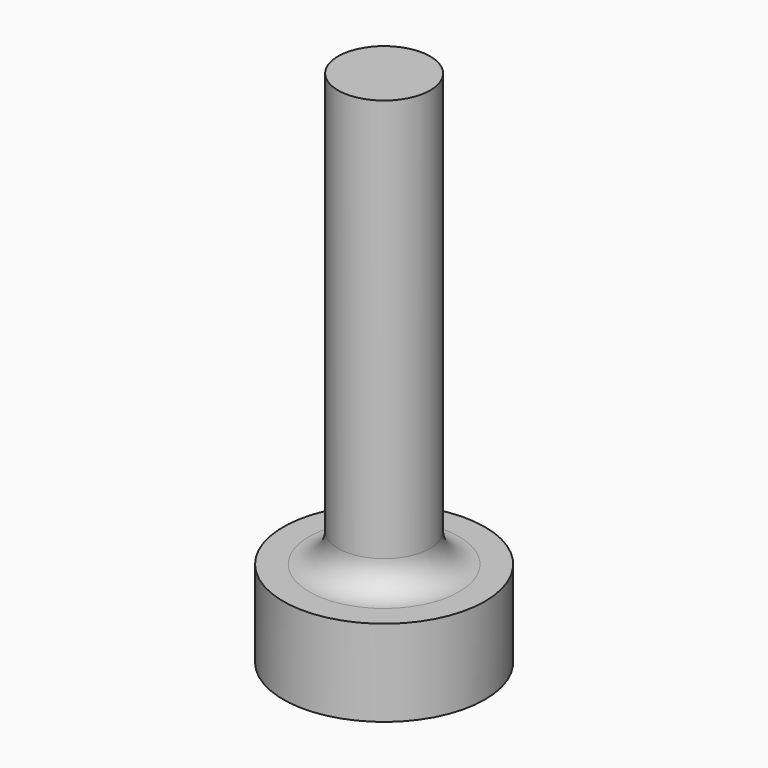
from build123d import *

# Parameters (mm, degrees)
SKETCH020_R     = 1.6
PAD015_DEPTH    = 15
SKETCH021_R     = 3.5
PAD016_DEPTH    = 3
SKETCH022_R     = 1.75
POCKET003_DEPTH = 2
FILLET002_R     = 1


with BuildPart() as part:
    # Sketch020 → Pad015 (new body)
    with BuildSketch(Plane.XY):
        with Locations((-72.372711, 11.675275)):
            Circle(SKETCH020_R)
    extrude(amount=PAD015_DEPTH)

    # Sketch021 → Pad016 (join)
    with BuildSketch(Plane.XY):
        with Locations((-72.372711, 11.675275)):
            Circle(SKETCH021_R)
    extrude(amount=-PAD016_DEPTH)

    # Sketch022 (on Face3 of Pad016) → Pocket003 (cut)
    with BuildSketch(Plane(origin=(0, 0, -3), x_dir=(1, 0, 0), z_dir=(0, 0, -1))):
        with Locations((-72.372711, -11.675275)):
            Circle(SKETCH022_R)
    extrude(amount=-POCKET003_DEPTH, mode=Mode.SUBTRACT)

    # Fillet002
    fillet002_edges = [part.edges().sort_by_distance(p)[0] for p in [
        (-73.972711, 11.675275, 0),
    ]]
    fillet(fillet002_edges, radius=FILLET002_R)


solid = part.part
